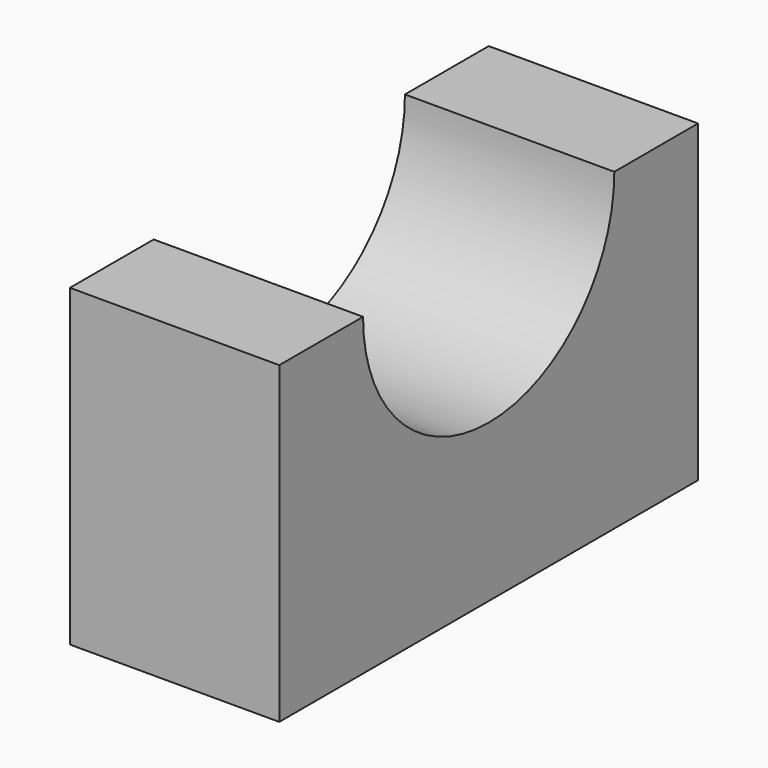
from build123d import *

# Parameters (mm, degrees)
F0_W     = 25.4
F0_H     = 38.1
F1_DEPTH = 63.5
F3_DEPTH = 25.4


with BuildPart() as f1:
    # F0 (on Front) → F1 (new body)
    with BuildSketch(Plane.XZ):
        with Locations((12.7, 19.05)):
            Rectangle(F0_W, F0_H)
    extrude(amount=F1_DEPTH)

    # F2 (on face) → F3 (cut)
    with BuildSketch(Plane.YZ.offset(25.4)):
        with BuildLine():
            ThreePointArc((-50.8, 38.1), (-31.75, 19.05), (-12.7, 38.1))
            Line((-12.7, 38.1), (-50.8, 38.1))
        make_face()
    extrude(amount=-F3_DEPTH, mode=Mode.SUBTRACT)


solid = f1.part
